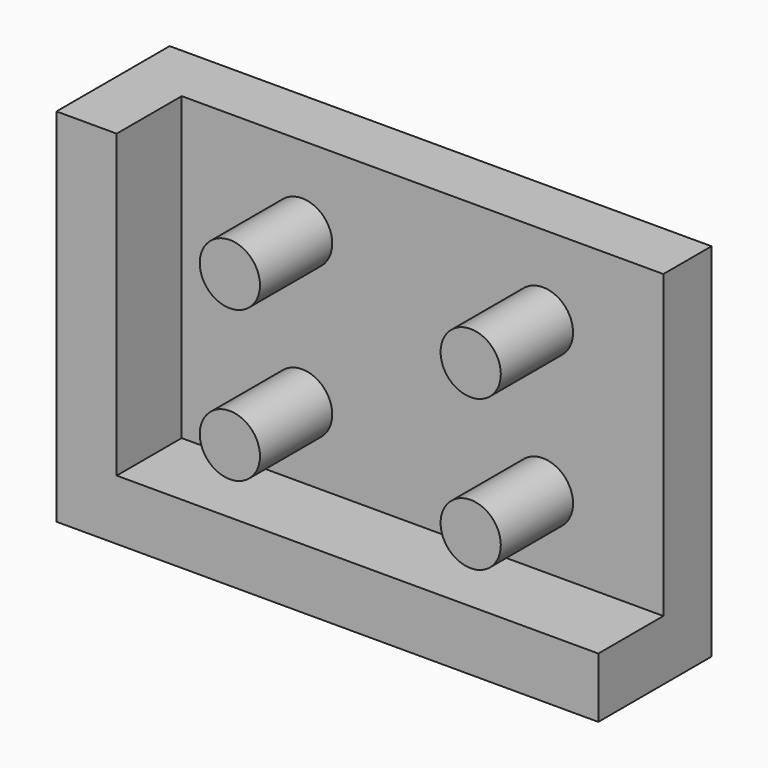
from build123d import *

# Parameters (mm, degrees)
F0_W      = 160
F0_H      = 100
F1_DEPTH  = 20
F3_W      = 27
F3_H      = 100
F4_DEPTH  = 20
F5_DEPTH  = 20
F6_R      = 10
F7_DEPTH  = 30
F9_W      = 160
F9_H      = 27
F10_DEPTH = 20
F11_DEPTH = 20
F12_DEPTH = 20
F13_DEPTH = 20


with BuildPart() as f1:
    # F0 (on Front) → F1 (new body)
    with BuildSketch(Plane.XZ):
        Rectangle(F0_W, F0_H)
    extrude(amount=-F1_DEPTH)

    # F3 (on offset) → F4 (join)
    with BuildSketch(Plane.YZ.offset(-80)):
        with Locations((-13.5, 0)):
            Rectangle(F3_W, F3_H)
    extrude(amount=-F4_DEPTH)

    # F5 (add): faces of the model
    f5_faces = [f1.faces().sort_by_distance(p)[0] for p in [
        (-90, -27, 0),
        (-90, 0, 0),
    ]]
    extrude(f5_faces, amount=-F5_DEPTH, dir=(0, -1, 0))

    # F6 (on face) → F7 (join)
    with BuildSketch(Plane.XZ):
        with Locations((-40, -26.8495120108)):
            Circle(F6_R)
        with Locations((-40, 23.1504879892)):
            Circle(F6_R)
        with Locations((40, -26.8495120108)):
            Circle(F6_R)
        with Locations((40, 23.1504879892)):
            Circle(F6_R)
    extrude(amount=F7_DEPTH)



with BuildPart() as f10:
    # F9 (on offset) → F10 (new body)
    with BuildSketch(Plane.XY.offset(-50)):
        with Locations((0, -13.5)):
            Rectangle(F9_W, F9_H)
    extrude(amount=-F10_DEPTH)


with BuildPart() as f11:
    # F11 (new, through all): a face of the model
    f11_faces = [f10.part.faces().sort_by_distance(p)[0] for p in [
        (0, 0, -60),
    ]]
    extrude(f11_faces, amount=F11_DEPTH)


with BuildPart() as f12:
    # F12 (new, through all): a face of the model
    f12_faces = [f10.part.faces().sort_by_distance(p)[0] for p in [
        (-80, -13.5, -60),
    ]]
    extrude(f12_faces, amount=F12_DEPTH)


with BuildPart() as f1_1:
    add(f1.part)
    # F13 (add, through all): a face of the model
    f13_faces = [f11.part.faces().sort_by_distance(p)[0] for p in [
        (-80, 10, -60),
    ]]

    add(f10.part)  # F13 merges F10

    add(f11.part)  # F13 merges F11

    add(f12.part)  # F13 merges F12
    extrude(f13_faces, amount=F13_DEPTH)


solid = f1_1.part
